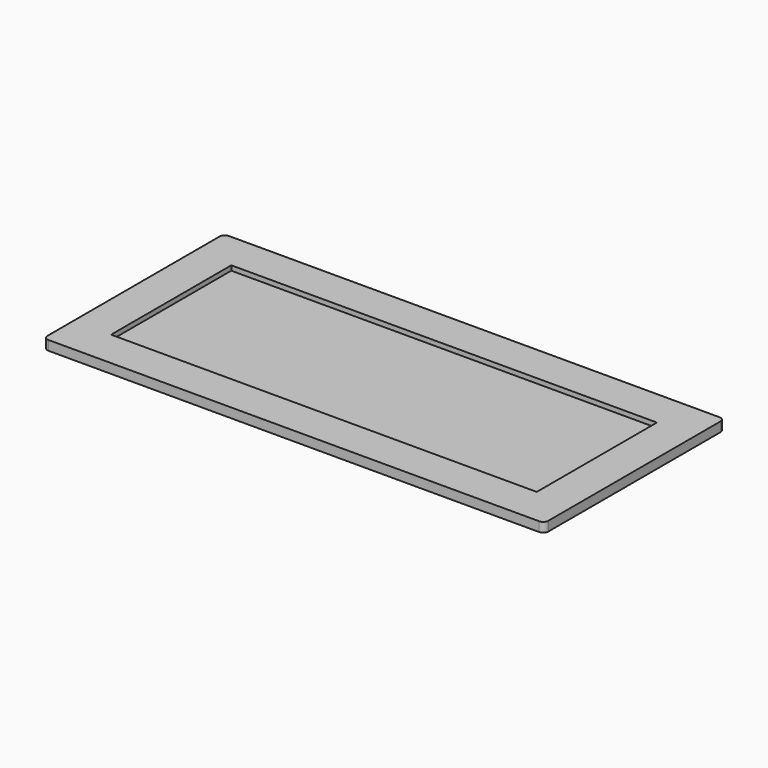
from build123d import *

# Parameters (mm, degrees)
F0_W     = 2000
F0_H     = 900
F1_DEPTH = 19
F2_W     = 2000
F2_H     = 900
F2_W_2   = 1700
F2_H_2   = 600
F3_DEPTH = 19
F4_R     = 20


with BuildPart() as f1:
    # F0 (on Top) → F1 (new body)
    with BuildSketch(Plane.XY):
        with Locations((3.94921, 185.664962)):
            Rectangle(F0_W, F0_H)
    extrude(amount=F1_DEPTH)

    # F2 (on face) → F3 (join)
    with BuildSketch(Plane.XY.offset(19)):
        with Locations((3.94921, 185.664962)):
            Rectangle(F2_W, F2_H)
        with Locations((3.94921, 185.664962)):
            Rectangle(F2_W_2, F2_H_2, mode=Mode.SUBTRACT)
    extrude(amount=F3_DEPTH)

    # F4
    f4_edges = [f1.edges().sort_by_distance(p)[0] for p in [
        (1003.94921, -264.335038, 19),
        (1003.94921, 635.664962, 19),
        (-996.05079, -264.335038, 19),
        (-996.05079, 635.664962, 19),
    ]]
    fillet(f4_edges, radius=F4_R)


solid = f1.part
